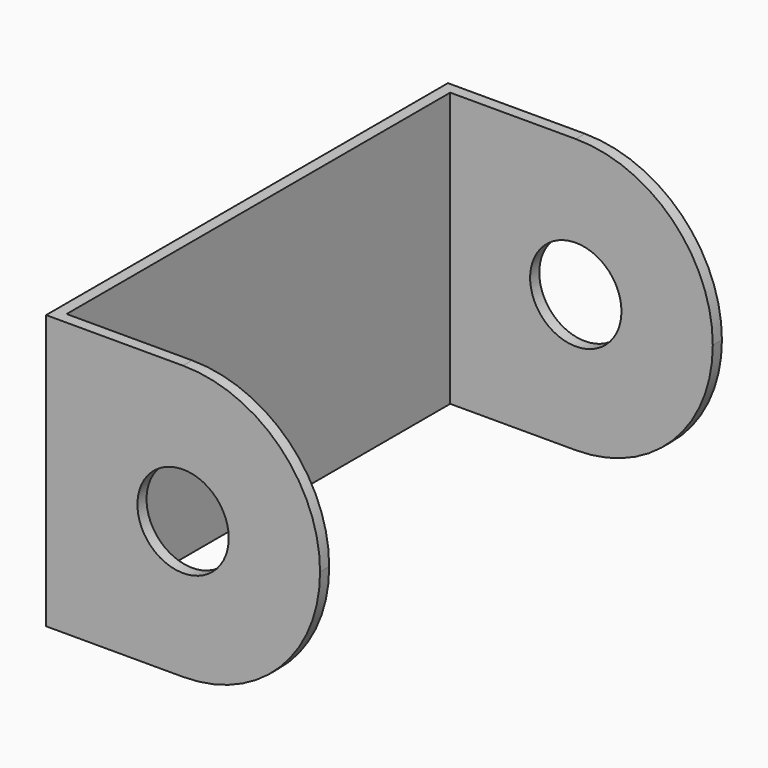
from build123d import *

# Parameters (mm, degrees)
F0_W     = 139.7
F0_H     = 76.2
F1_DEPTH = 76.2
F2_W     = 133.35
F2_H     = 76.2
F3_DEPTH = 73.025
F4_R     = 12.7
F5_DEPTH = 171.196


with BuildPart() as f1:
    # F0 (on Right) → F1 (new body)
    with BuildSketch(Plane.YZ):
        Rectangle(F0_W, F0_H)
    extrude(amount=F1_DEPTH)

    # F2 (on face) → F3 (cut)
    with BuildSketch(Plane.YZ.offset(76.2)):
        Rectangle(F2_W, F2_H)
    extrude(amount=-F3_DEPTH, mode=Mode.SUBTRACT)

    # F4 (on face) → F5 (cut)
    with BuildSketch(Plane.XZ.offset(69.85)):
        with BuildLine():
            ThreePointArc((76.2, 0), (65.040768, -26.940768), (38.1, -38.1))
            Line((38.1, -38.1), (76.2, -38.1))
            Line((76.2, -38.1), (76.2, 0))
        make_face()
        with BuildLine():
            ThreePointArc((38.1, 38.1), (65.040768, 26.940768), (76.2, 0))
            Line((76.2, 0), (76.2, 38.1))
            Line((76.2, 38.1), (38.1, 38.1))
        make_face()
        with Locations((38.1, 0)):
            Circle(F4_R)
    extrude(amount=-F5_DEPTH, mode=Mode.SUBTRACT)


solid = f1.part
